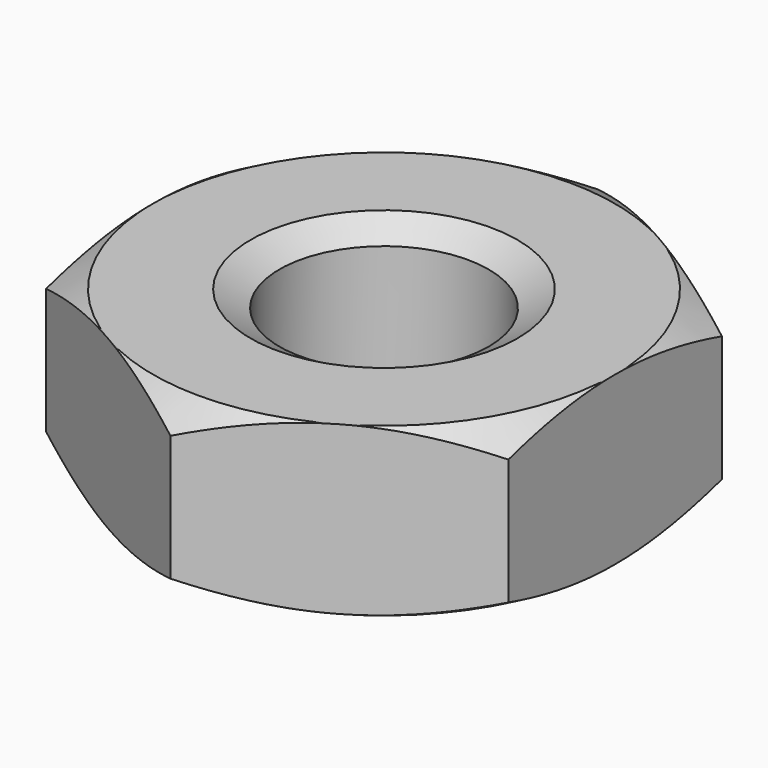
from build123d import *

# Parameters (mm, degrees)
F0_R     = 3.175
F0_R_2   = 2.4892
F1_DEPTH = 3.9751


with BuildPart() as f1:
    # F0 (on Top) → F1 (new body)
    with BuildSketch(Plane.XY):
        Polygon((5.4991, -3.174907), (5.4991, 3.174907), (0, 6.349814), (-5.4991, 3.174907), (-5.4991, -3.174907), (0, -6.349814), align=None)
        Circle(F0_R, mode=Mode.SUBTRACT)
        Circle(F0_R)
        Circle(F0_R_2, mode=Mode.SUBTRACT)
    extrude(amount=F1_DEPTH)

    # F2 (on Front) → F3 (revolve, intersect)
    with BuildSketch(Plane.XZ):
        Polygon((5.4991, 0), (5.4991, 3.9751), (3.175, 3.9751), (0, 2.142013), (0, 1.833087), (3.175, 0), align=None)
        Polygon((8.0391, 2.50863), (5.4991, 3.9751), (5.4991, 0), (8.0391, 1.46647), align=None)
    revolve(axis=Axis((0, 0, 1.98755), (0, 0, -1)), mode=Mode.INTERSECT)


solid = f1.part
